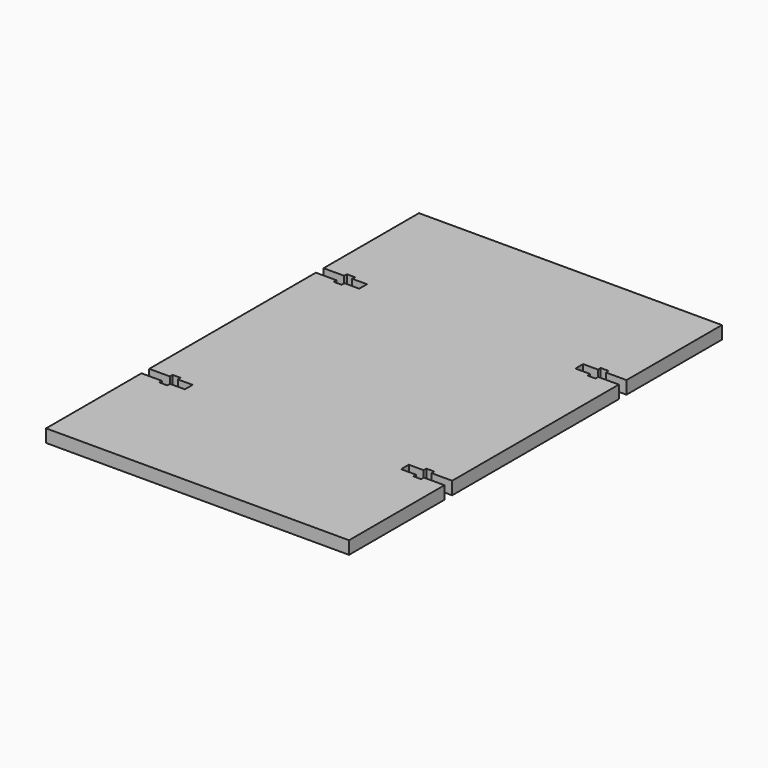
from build123d import *

# Parameters (mm, degrees)
F0_W     = 105.1814
F0_H     = 161.8234
F1_DEPTH = 4.4704
F3_DEPTH = 4.4704


with BuildPart() as f1:
    # F0 (on Top) → F1 (new body)
    with BuildSketch(Plane.XY):
        Rectangle(F0_W, F0_H)
    extrude(amount=F1_DEPTH)

    # F2 (on face) → F3 (cut, through all)
    with BuildSketch(Plane.XY.offset(4.4704)):
        Polygon((-45.4533, 39.5097), (-52.5907, 39.5097), (-52.5907, 36.1569), (-45.4533, 36.1569), (-45.4533, 34.9758), (-42.6593, 34.9758), (-42.6593, 36.1569), (-37.5285, 36.1569), (-37.5285, 39.5097), (-42.6593, 39.5097), (-42.6593, 40.6908), (-45.4533, 40.6908), align=None)
        Polygon((-45.4533, -39.5097), (-45.4533, -40.6908), (-42.6593, -40.6908), (-42.6593, -39.5097), (-37.5285, -39.5097), (-37.5285, -36.1569), (-42.6593, -36.1569), (-42.6593, -34.9758), (-45.4533, -34.9758), (-45.4533, -36.1569), (-52.5907, -36.1569), (-52.5907, -39.5097), align=None)
        Polygon((42.6593, 40.6908), (42.6593, 39.5097), (37.5285, 39.5097), (37.5285, 36.1569), (42.6593, 36.1569), (42.6593, 34.9758), (45.4533, 34.9758), (45.4533, 36.1569), (52.5907, 36.1569), (52.5907, 39.5097), (45.4533, 39.5097), (45.4533, 40.6908), align=None)
        Polygon((42.6593, -40.6908), (45.4533, -40.6908), (45.4533, -39.5097), (52.5907, -39.5097), (52.5907, -36.1569), (45.4533, -36.1569), (45.4533, -34.9758), (42.6593, -34.9758), (42.6593, -36.1569), (37.5285, -36.1569), (37.5285, -39.5097), (42.6593, -39.5097), align=None)
    extrude(amount=-F3_DEPTH, mode=Mode.SUBTRACT)


solid = f1.part
